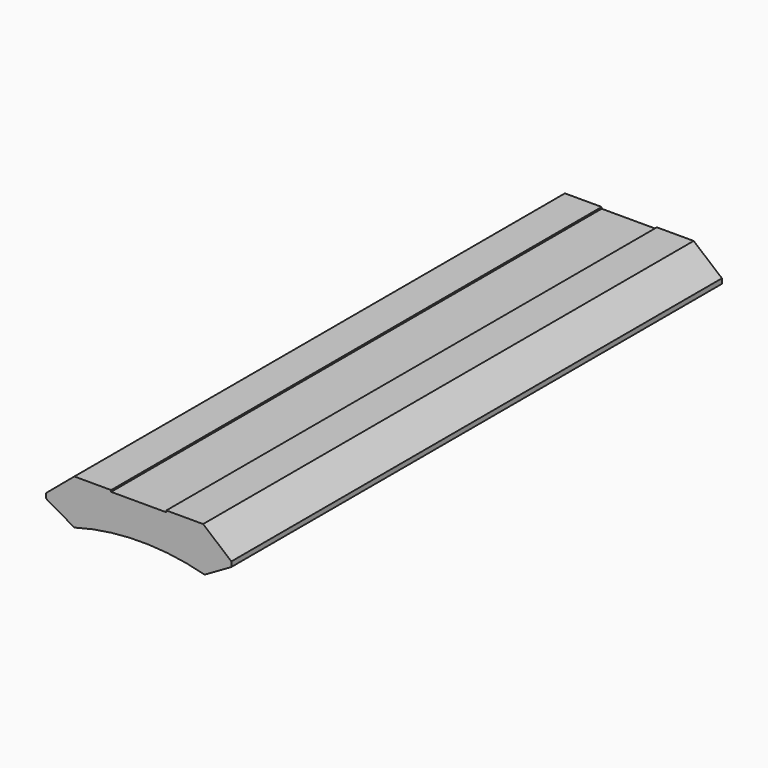
from build123d import *

# Parameters (mm, degrees)
F1_DEPTH = 250


with BuildPart() as f1:
    # F0 (on Front) → F1 (new body, symmetric)
    with BuildSketch(Plane.XZ):
        with BuildLine():
            Line((-44.971709, 23.338451), (-68.018377, 4))
            Line((-68.018377, 4), (-68.018377, 0))
            Line((-68.018377, 0), (-44.971709, -13.306))
            ThreePointArc((-44.971709, -13.306), (8.098756, -5.765582), (61.265842, -12.5915))
            Line((61.265842, -12.5915), (83.074959, 0))
            Line((83.074959, 0), (83.074959, 4))
            Line((83.074959, 4), (60.028291, 23.338451))
            Line((60.028291, 23.338451), (30.028291, 23.338451))
            Line((30.028291, 23.338451), (30.028291, 22.038451))
            Line((30.028291, 22.038451), (-14.971709, 22.038451))
            Line((-14.971709, 22.038451), (-14.971709, 23.338451))
            Line((-14.971709, 23.338451), (-44.971709, 23.338451))
        make_face()
    extrude(amount=F1_DEPTH, both=True)


solid = f1.part
